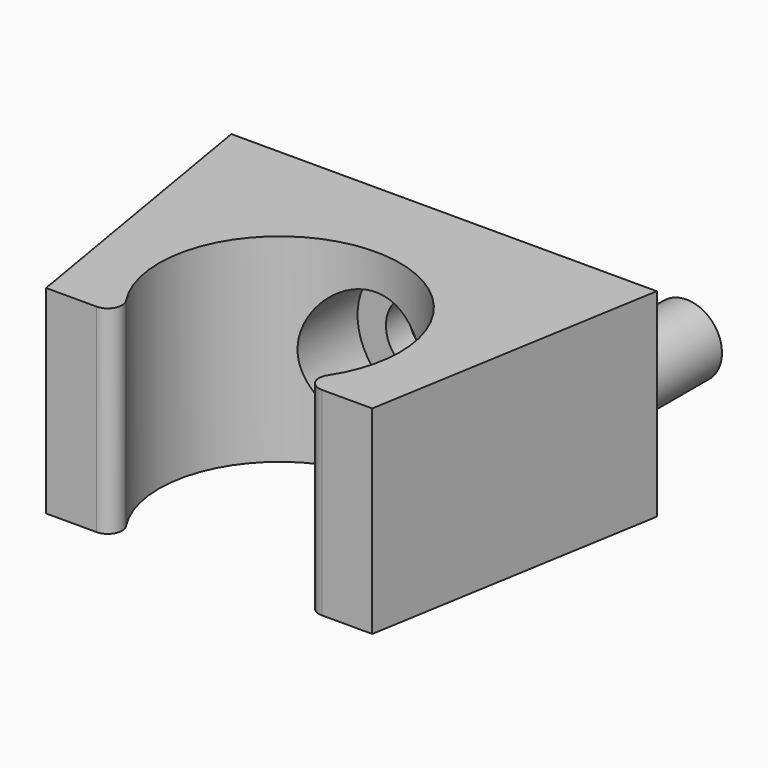
from build123d import *

# Parameters (mm, degrees)
F1_DEPTH  = 14
F3_D      = 9
F5_DEPTH  = 25
F6_R      = 5.1010545076
F7_DEPTH  = 2
F9_D      = 5
F10_R     = 1
F8_R      = 2.5
F11_DEPTH = 7


with BuildPart() as f1:
    # F0 (on Top) → F1 (new body)
    with BuildSketch(Plane.XY):
        Polygon((15, 0), (-15, 0), (-11.5, -20.7062792408), (11.5, -20.7062792408), align=None)
    extrude(amount=F1_DEPTH)

    # F3 (through all)
    with Locations(Plane(origin=(0, 0, 0), x_dir=(-1, 0, 0), z_dir=(0, 1, 0))):
        with Locations((0, 7)):
            Hole(F3_D / 2)

    # F4 (on face) → F5 (cut)
    with BuildSketch(Plane.XY.offset(14)):
        with BuildLine():
            ThreePointArc((5.8079340548, -20.7062792408), (7.7979945969, -17.8824961592), (8.5, -14.5))
            ThreePointArc((8.5, -14.5), (-3.3824961592, -6.7020054031), (-5.8079340548, -20.7062792408))
            Line((-5.8079340548, -20.7062792408), (5.8079340548, -20.7062792408))
        make_face()
    extrude(amount=-F5_DEPTH, mode=Mode.SUBTRACT)

    # F6 (on face) → F7 (join)
    with BuildSketch(Plane(origin=(0, 0, 0), x_dir=(-1, 0, 0), z_dir=(0, 1, 0))):
        with Locations((0, 7)):
            Circle(F6_R)
    extrude(amount=-F7_DEPTH)

    # F9 (through all)
    with Locations(Plane(origin=(0, 0, 0), x_dir=(-1, 0, 0), z_dir=(0, 1, 0))):
        with Locations((0, 7)):
            Hole(F9_D / 2)

    # F10
    f10_edges = [f1.edges().sort_by_distance(p)[0] for p in [
        (-5.807934, -20.706279, 7),
        (5.807934, -20.706279, 7),
    ]]
    fillet(f10_edges, radius=F10_R)

    # F8 (on face) → F11 (join)
    with BuildSketch(Plane(origin=(0, 0, 0), x_dir=(-1, 0, 0), z_dir=(0, 1, 0))):
        with Locations((-11.5, 7)):
            Circle(F8_R)
    extrude(amount=F11_DEPTH)


solid = f1.part
